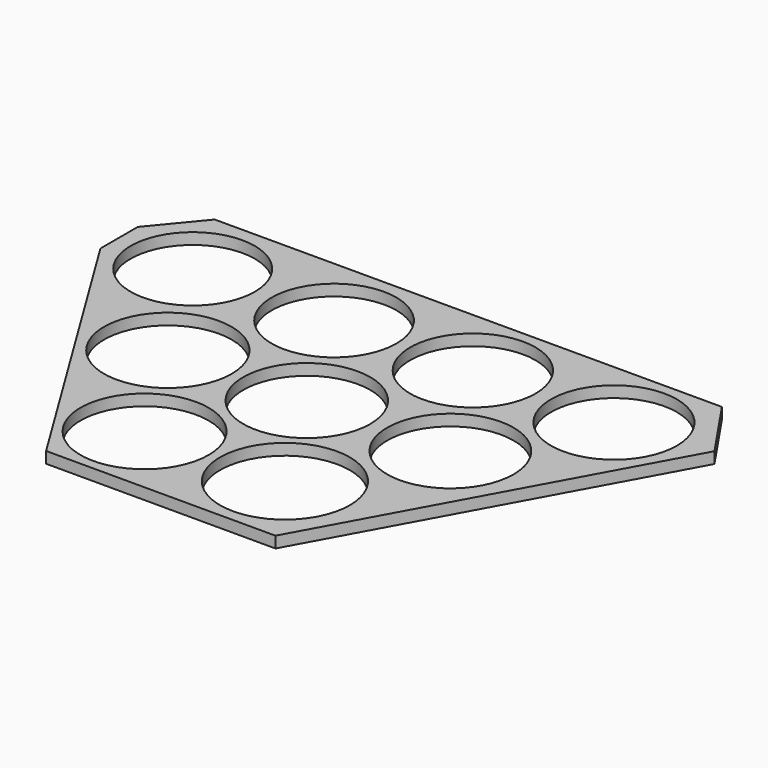
from build123d import *

# Parameters (mm, degrees)
F0_R     = 11.3
F0_R_2   = 11.35
F0_R_3   = 11.5
F0_R_4   = 11.25
F0_R_5   = 11
F0_R_6   = 11.05
F0_R_7   = 11.1
F0_R_8   = 11.2
F0_R_9   = 11.15
F1_DEPTH = 2


with BuildPart() as f1:
    # F0 (on Top) → F1 (new body)
    with BuildSketch(Plane.XY):
        Polygon((96.799478, 0), (6.921145, 0), (0, -8.386913), (0, -16.648708), (32.031171, -68.723053), (72.675842, -68.723053), (104.285748, -11.014229), align=None)
        with Locations((26.3534, -34.652458)):
            Circle(F0_R, mode=Mode.SUBTRACT)
        with Locations((39.005366, -55.63228)):
            Circle(F0_R_2, mode=Mode.SUBTRACT)
        with Locations((63.503846, -55.17304)):
            Circle(F0_R_3, mode=Mode.SUBTRACT)
        with Locations((50.761709, -34.401432)):
            Circle(F0_R_4, mode=Mode.SUBTRACT)
        with Locations((13.787649, -13.441782)):
            Circle(F0_R_5, mode=Mode.SUBTRACT)
        with Locations((38.731861, -13.319803)):
            Circle(F0_R_6, mode=Mode.SUBTRACT)
        with Locations((63.075766, -13.010634)):
            Circle(F0_R_7, mode=Mode.SUBTRACT)
        with Locations((75.724386, -33.79437)):
            Circle(F0_R_8, mode=Mode.SUBTRACT)
        with Locations((88.055189, -12.985228)):
            Circle(F0_R_9, mode=Mode.SUBTRACT)
    extrude(amount=F1_DEPTH)


solid = f1.part
